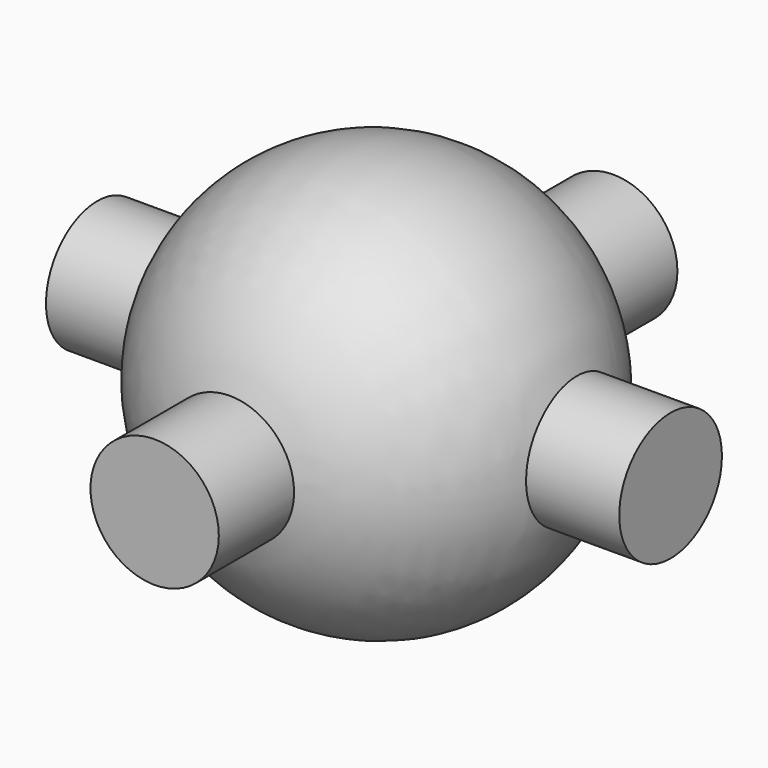
from build123d import *

# Parameters (mm, degrees)
F0_R     = 0.75
F1_DEPTH = 3.35
F2_R     = 0.75
F3_DEPTH = 3.35


with BuildPart() as f1:
    # F0 (on Front) → F1 (new body, symmetric)
    with BuildSketch(Plane.XZ):
        Circle(F0_R)
    extrude(amount=F1_DEPTH, both=True)

    # F2 (on Right) → F3 (join, symmetric)
    with BuildSketch(Plane.YZ):
        Circle(F2_R)
    extrude(amount=F3_DEPTH, both=True)

    # F4 (on Top) → F5 (revolve)
    with BuildSketch(Plane.XY):
        with BuildLine():
            Line((0, 2.113225), (0, -2.336775))
            ThreePointArc((0, -2.336775), (2.354721, -0.111775), (0, 2.113225))
        make_face()
    revolve(axis=Axis((0, -0.111775, 0), (0, 1, 0)))


solid = f1.part
